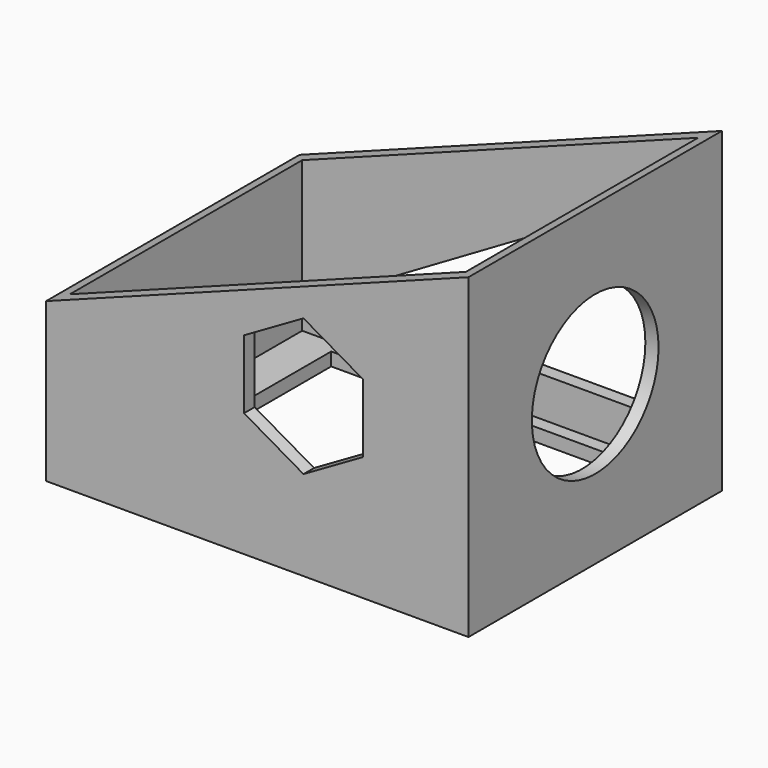
from build123d import *

# Parameters (mm, degrees)
F0_W      = 101.6
F0_H      = 76.2
F1_DEPTH  = 3.175
F2_W      = 101.6
F2_H      = 76.2
F2_W_2    = 95.25
F2_H_2    = 69.85
F3_DEPTH  = 73.025
F5_DEPTH  = 76.201
F6_R      = 19.05
F7_DEPTH  = 25.4
F8_W      = 73.025
F8_H      = 60.325
F9_DEPTH  = 3.176
F11_DEPTH = 25.4
F13_DEPTH = 25.4


with BuildPart() as f1:
    # F0 (on Top) → F1 (new body)
    with BuildSketch(Plane.XY):
        with Locations((2.650434, 1.813662)):
            Rectangle(F0_W, F0_H)
    extrude(amount=F1_DEPTH)

    # F2 (on face) → F3 (join)
    with BuildSketch(Plane.XY.offset(3.175)):
        with Locations((2.650434, 1.813662)):
            Rectangle(F2_W, F2_H)
        with Locations((2.650434, 1.813662)):
            Rectangle(F2_W_2, F2_H_2, mode=Mode.SUBTRACT)
    extrude(amount=F3_DEPTH)

    # F4 (on face) → F5 (cut, through all)
    with BuildSketch(Plane.XZ.offset(36.286338)):
        Polygon((-48.149566, 76.2), (-48.149566, 38.1), (53.450434, 76.2), align=None)
    extrude(amount=-F5_DEPTH, mode=Mode.SUBTRACT)

    # F6 (on face) → F7 (cut)
    with BuildSketch(Plane.YZ.offset(53.450434)):
        with Locations((1.813662, 38.1)):
            Circle(F6_R)
    extrude(amount=-F7_DEPTH, mode=Mode.SUBTRACT)

    # F8 (on face) → F9 (cut, through all)
    with BuildSketch(Plane.XY.offset(3.175)):
        with Locations((1.062934, 3.401162)):
            Rectangle(F8_W, F8_H)
    extrude(amount=-F9_DEPTH, mode=Mode.SUBTRACT)

    # F10 (on face) → F11 (cut)
    with BuildSketch(Plane.XZ.offset(36.286338)):
        Polygon((28.050434, 29.851108), (28.050434, 46.348892), (13.762934, 54.597784), (-0.524566, 46.348892), (-0.524566, 29.851108), (13.762934, 21.602216), align=None)
    extrude(amount=-F11_DEPTH, mode=Mode.SUBTRACT)

    # F12 (on face) → F13 (cut)
    with BuildSketch(Plane(origin=(0, 39.913662, 0), x_dir=(-1, 0, 0), z_dir=(0, 1, 0))):
        Polygon((38.624566, 12.7), (-37.575434, 57.15), (-37.575434, 12.7), align=None)
    extrude(amount=-F13_DEPTH, mode=Mode.SUBTRACT)


solid = f1.part
